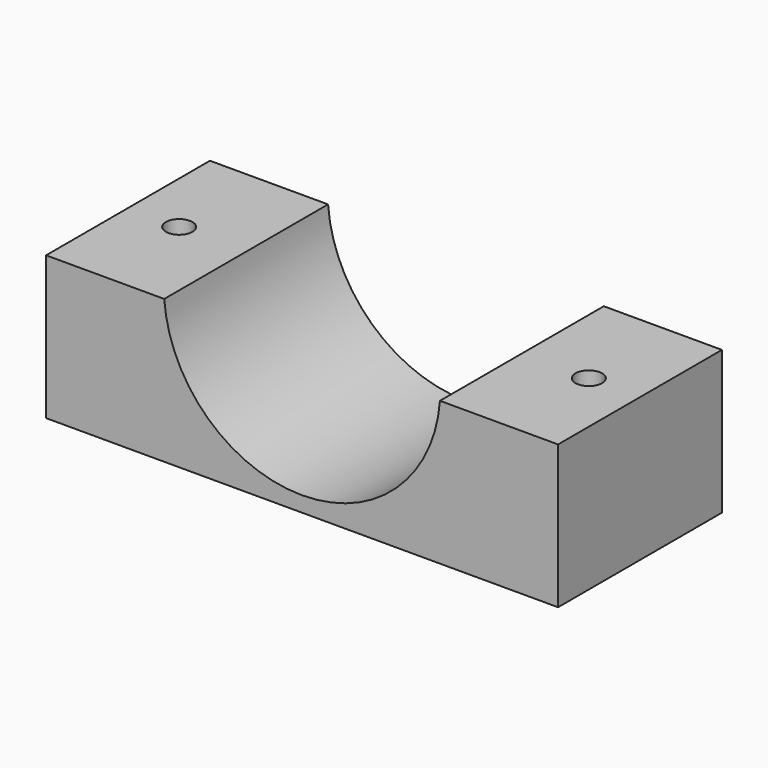
from build123d import *

# Parameters (mm, degrees)
SKETCH003_W     = 50
SKETCH003_H     = 20
PAD001_DEPTH    = 14
SKETCH004_R     = 13.5
POCKET002_DEPTH = 20.001
SKETCH005_R     = 1.3
POCKET003_DEPTH = 14.001
SKETCH017_R     = 3
POCKET012_DEPTH = 8


with BuildPart() as part:
    # Sketch003 → Pad001 (new body)
    with BuildSketch(Plane.XY):
        Rectangle(SKETCH003_W, SKETCH003_H)
    extrude(amount=PAD001_DEPTH)

    # Sketch004 (on Face3 of Pad001) → Pocket002 (cut, through all)
    with BuildSketch(Plane.XZ.offset(10)):
        with Locations((0, 15)):
            Circle(SKETCH004_R)
    extrude(amount=-POCKET002_DEPTH, mode=Mode.SUBTRACT)

    # Sketch005 (on Face6 of Pocket002) → Pocket003 (cut, through all)
    with BuildSketch(Plane.XY.offset(14)):
        with Locations((-20, 0)):
            Circle(SKETCH005_R)
        with Locations((20, 0)):
            Circle(SKETCH005_R)
    extrude(amount=-POCKET003_DEPTH, mode=Mode.SUBTRACT)

    # Sketch017 (on Face2 of Pocket003) → Pocket012 (cut)
    with BuildSketch(Plane(origin=(0, 0, 0), x_dir=(1, 0, 0), z_dir=(0, 0, -1))):
        with Locations((-20, 0)):
            Circle(SKETCH017_R)
        with Locations((20, 0)):
            Circle(SKETCH017_R)
    extrude(amount=-POCKET012_DEPTH, mode=Mode.SUBTRACT)


with BuildPart() as part_1:
    # Body001 placement: moved
    add(part.part.moved(Location((80, -50, 0))))


solid = part_1.part
